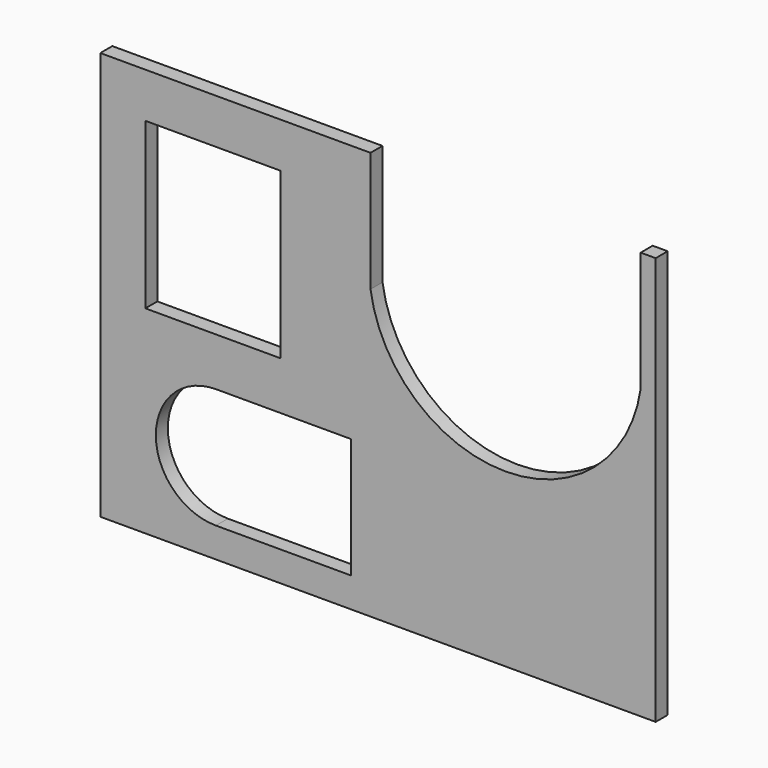
from build123d import *

# Parameters (mm, degrees)
F0_W     = 14.2875
F0_H     = 17.4625
F1_DEPTH = 1.5875


with BuildPart() as f1:
    # F0 (on Front) → F1 (new body)
    with BuildSketch(Plane.XZ):
        with BuildLine():
            Line((-30.1625, 25.4), (-30.1625, -17.78))
            Line((-30.1625, -17.78), (28.575, -17.78))
            Line((28.575, -17.78), (28.575, 25.4))
            Line((28.575, 25.4), (26.9875, 25.4))
            Line((26.9875, 25.4), (26.9875, 12.7))
            ThreePointArc((26.9875, 12.7), (12.7, 0.371714), (-1.5875, 12.7))
            Line((-1.5875, 12.7), (-1.5875, 25.4))
            Line((-1.5875, 25.4), (-30.1625, 25.4))
        make_face()
        with BuildLine():
            ThreePointArc((-17.939954, -14.622975), (-24.289954, -8.272975), (-17.939954, -1.922975))
            Line((-17.939954, -1.922975), (-3.652454, -1.922975))
            Line((-3.652454, -1.922975), (-3.652454, -14.622975))
            Line((-3.652454, -14.622975), (-17.939954, -14.622975))
        make_face(mode=Mode.SUBTRACT)
        with Locations((-18.25625, 11.90625)):
            Rectangle(F0_W, F0_H, mode=Mode.SUBTRACT)
    extrude(amount=F1_DEPTH)


solid = f1.part
